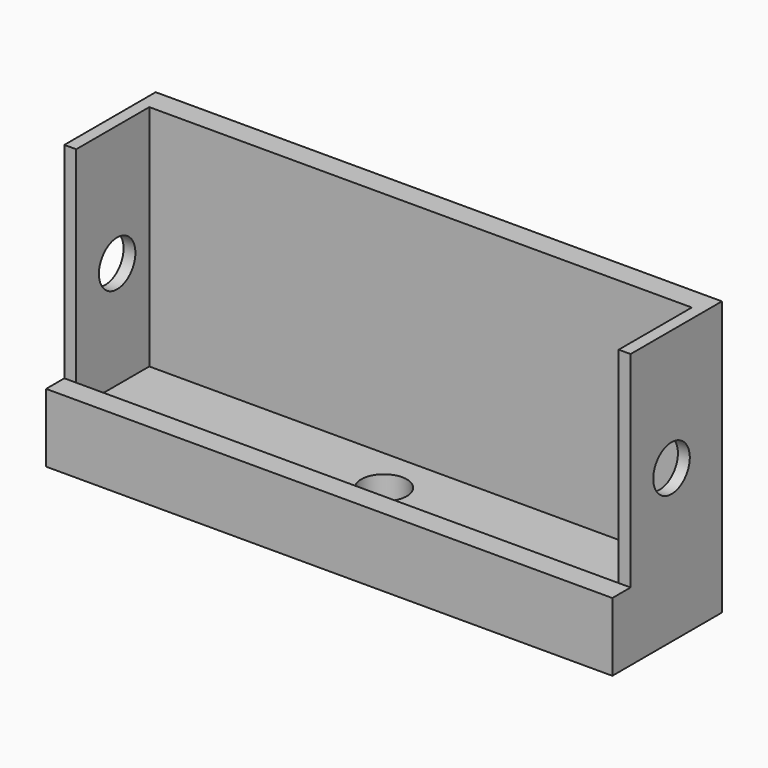
from build123d import *

# Parameters (mm, degrees)
F0_W     = 157.48
F0_H     = 76.2
F1_DEPTH = 6.35
F2_W     = 157.48
F2_H     = 12.7
F3_DEPTH = 31.75
F4_W     = 157.48
F4_H     = 6.35
F5_DEPTH = 6.35
F7_D     = 12.7
F8_W     = 3.302
F8_H     = 63.5
F9_DEPTH = 25.4
F11_D    = 12.7


with BuildPart() as f1:
    # F0 (on Front) → F1 (new body)
    with BuildSketch(Plane.XZ):
        with Locations((-16.753665, -12.914129)):
            Rectangle(F0_W, F0_H)
    extrude(amount=F1_DEPTH)

    # F2 (on face) → F3 (join)
    with BuildSketch(Plane.XZ.offset(6.35)):
        with Locations((-16.753665, -44.664129)):
            Rectangle(F2_W, F2_H)
    extrude(amount=F3_DEPTH)

    # F4 (on face) → F5 (join)
    with BuildSketch(Plane.XY.offset(-38.314129)):
        with Locations((-16.753665, -34.925)):
            Rectangle(F4_W, F4_H)
    extrude(amount=F5_DEPTH)

    # F7 (through all)
    with Locations(Plane.XY.offset(-38.314129)):
        with Locations((-16.753665, -19.05)):
            Hole(F7_D / 2)

    # F8 (on face) → F9 (join)
    with BuildSketch(Plane.XZ.offset(6.35)):
        with Locations((-93.842665, -6.564129)):
            Rectangle(F8_W, F8_H)
        with Locations((60.335335, -6.564129)):
            Rectangle(F8_W, F8_H)
    extrude(amount=F9_DEPTH)

    # F11 (through all)
    with Locations(Plane.YZ.offset(61.986335)):
        with Locations((-17.52157, -8.528198)):
            Hole(F11_D / 2)


solid = f1.part
